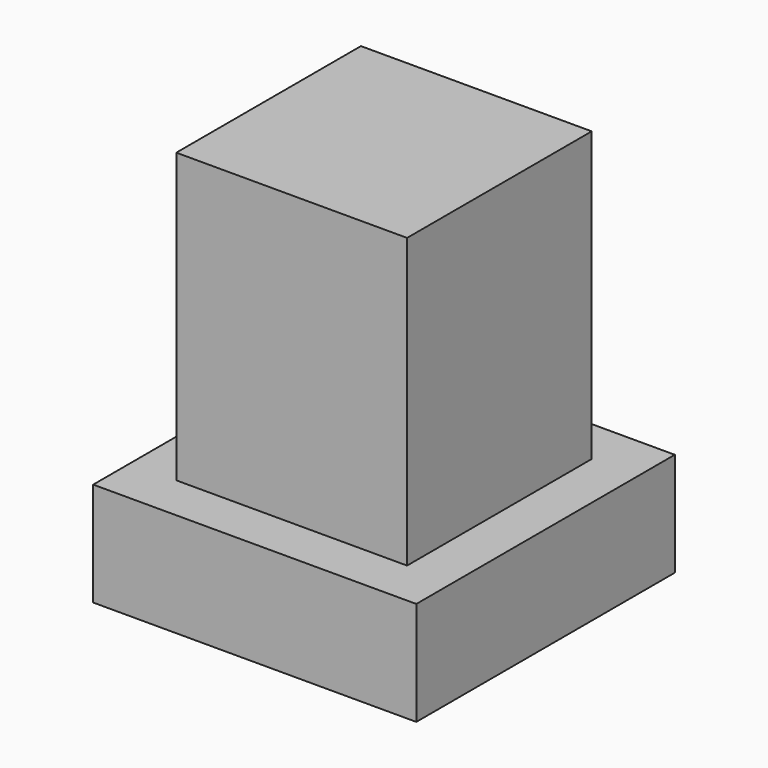
from build123d import *

# Parameters (mm, degrees)
SKETCH_W     = 5.6
SKETCH_H     = 5.6
PAD_DEPTH    = 1.8
SKETCH001_W  = 4
SKETCH001_H  = 4
PAD001_DEPTH = 5


with BuildPart() as part:
    # Sketch → Pad (new body)
    with BuildSketch(Plane.XY):
        Rectangle(SKETCH_W, SKETCH_H)
    extrude(amount=PAD_DEPTH)

    # Sketch001 → Pad001 (new body)
    with BuildSketch(Plane.XY.offset(1.8)):
        Rectangle(SKETCH001_W, SKETCH001_H)
    extrude(amount=PAD001_DEPTH)


solid = part.part
